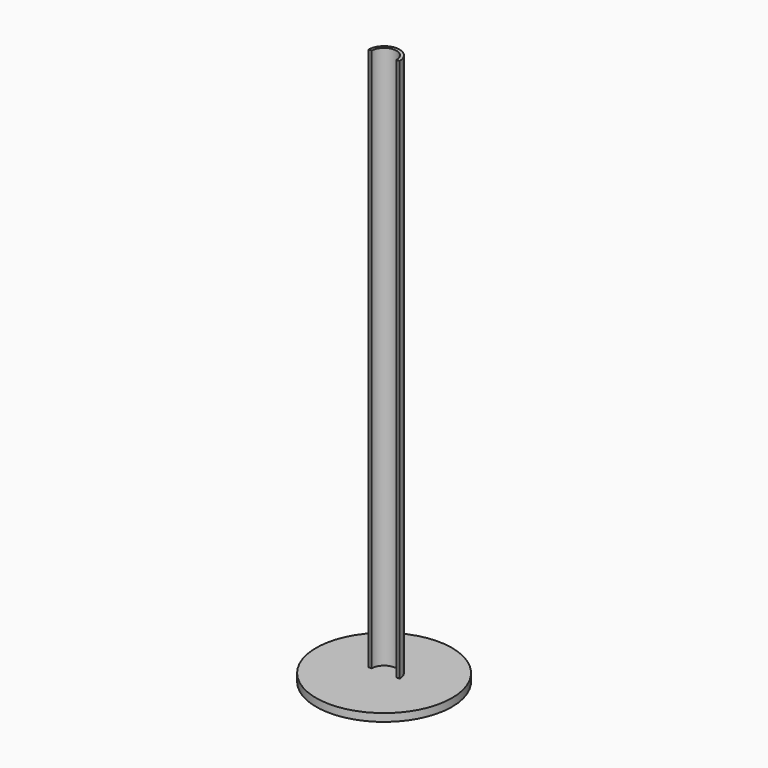
from build123d import *

# Parameters (mm, degrees)
F1_DEPTH = 1750
F2_R     = 218.630167
F3_DEPTH = 25


with BuildPart() as f1:
    # F0 (on Top) → F1 (new body)
    with BuildSketch(Plane.XY):
        with BuildLine():
            Line((40, 0), (50, 0))
            ThreePointArc((50, 0), (0, 50), (-50, 0))
            Line((-50, 0), (-40, 0))
            ThreePointArc((-40, 0), (0, 40), (40, 0))
        make_face()
    extrude(amount=F1_DEPTH)


with BuildPart() as f3:
    # F2 (on face) → F3 (new body)
    with BuildSketch(Plane(origin=(0, 0, 0), x_dir=(1, 0, 0), z_dir=(0, 0, -1))):
        Circle(F2_R)
        Circle(F2_R)
    extrude(amount=F3_DEPTH)


solid = Compound([f1.part, f3.part])
